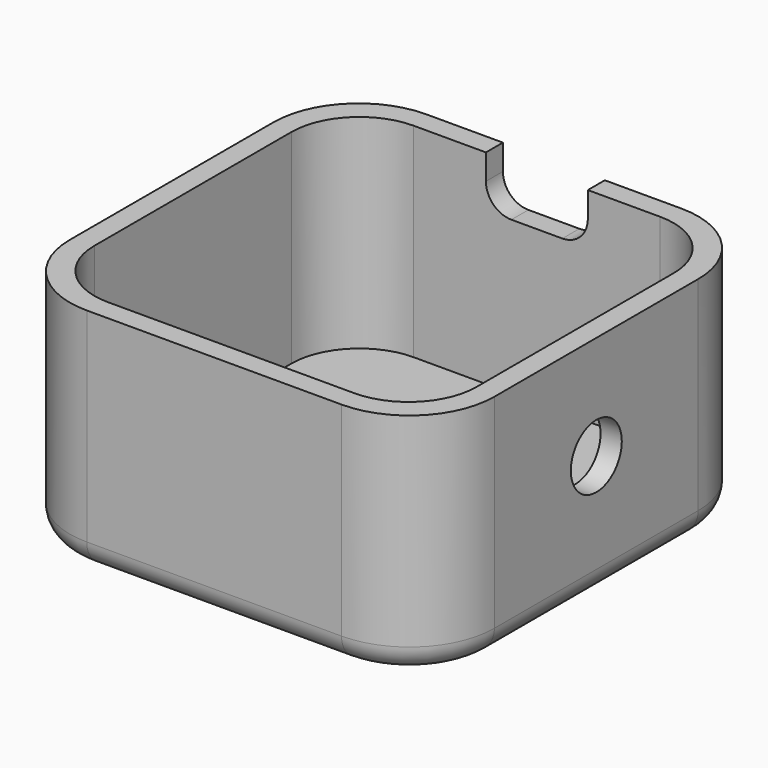
from build123d import *

# Parameters (mm, degrees)
F1_DEPTH  = 27
F3_DEPTH  = 24
F5_DEPTH  = 3
F4_R      = 3.4
F6_DEPTH  = 3
F8_DEPTH  = 3
F9_R      = 3
F10_R     = 3.75
F11_DEPTH = 3


with BuildPart() as f1:
    # F0 (on Top) → F1 (new body)
    with BuildSketch(Plane.XY):
        with BuildLine():
            ThreePointArc((25, 15), (22.071068, 22.071068), (15, 25))
            Line((15, 25), (-15, 25))
            ThreePointArc((-15, 25), (-22.071068, 22.071068), (-25, 15))
            Line((-25, 15), (-25, -15))
            ThreePointArc((-25, -15), (-22.071068, -22.071068), (-15, -25))
            Line((-15, -25), (15, -25))
            ThreePointArc((15, -25), (22.071068, -22.071068), (25, -15))
            Line((25, -15), (25, 15))
        make_face()
    extrude(amount=F1_DEPTH)

    # F2 (on face) → F3 (cut)
    with BuildSketch(Plane.XY.offset(27)):
        with BuildLine():
            ThreePointArc((22.5, 14.5), (20.156854, 20.156854), (14.5, 22.5))
            Line((14.5, 22.5), (-14.5, 22.5))
            ThreePointArc((-14.5, 22.5), (-20.156854, 20.156854), (-22.5, 14.5))
            Line((-22.5, 14.5), (-22.5, -14.5))
            ThreePointArc((-22.5, -14.5), (-20.156854, -20.156854), (-14.5, -22.5))
            Line((-14.5, -22.5), (14.5, -22.5))
            ThreePointArc((14.5, -22.5), (20.156854, -20.156854), (22.5, -14.5))
            Line((22.5, -14.5), (22.5, 14.5))
        make_face()
    extrude(amount=-F3_DEPTH, mode=Mode.SUBTRACT)

    # F4 (on face) → F5 (cut)
    with BuildSketch(Plane.XY.offset(3)):
        with BuildLine():
            ThreePointArc((6, 3), (5.12132, 5.12132), (3, 6))
            Line((3, 6), (-3, 6))
            ThreePointArc((-3, 6), (-5.12132, 5.12132), (-6, 3))
            Line((-6, 3), (-6, -3))
            ThreePointArc((-6, -3), (-5.12132, -5.12132), (-3, -6))
            Line((-3, -6), (3, -6))
            ThreePointArc((3, -6), (5.12132, -5.12132), (6, -3))
            Line((6, -3), (6, 3))
        make_face()
    extrude(amount=-F5_DEPTH, mode=Mode.SUBTRACT)

    # F4 (on face) → F6 (cut)
    with BuildSketch(Plane.XY.offset(3)):
        with BuildLine():
            ThreePointArc((6, 3), (5.12132, 5.12132), (3, 6))
            Line((3, 6), (-3, 6))
            ThreePointArc((-3, 6), (-5.12132, 5.12132), (-6, 3))
            Line((-6, 3), (-6, -3))
            ThreePointArc((-6, -3), (-5.12132, -5.12132), (-3, -6))
            Line((-3, -6), (3, -6))
            ThreePointArc((3, -6), (5.12132, -5.12132), (6, -3))
            Line((6, -3), (6, 3))
        make_face()
        with Locations((0, 12)):
            Circle(F4_R)
    extrude(amount=-F6_DEPTH, mode=Mode.SUBTRACT)

    # F7 (on face) → F8 (cut)
    with BuildSketch(Plane(origin=(0, 25, 0), x_dir=(-1, 0, 0), z_dir=(0, 1, 0))):
        with BuildLine():
            Line((-3, 21), (3, 21))
            ThreePointArc((3, 21), (5.12132, 21.87868), (6, 24))
            Line((6, 24), (6, 27))
            Line((6, 27), (-6, 27))
            Line((-6, 27), (-6, 24))
            ThreePointArc((-6, 24), (-5.12132, 21.87868), (-3, 21))
        make_face()
    extrude(amount=-F8_DEPTH, mode=Mode.SUBTRACT)

    # F9
    f9_edges = [f1.edges().sort_by_distance(p)[0] for p in [
        (0, 25, 0),
    ]]
    fillet(f9_edges, radius=F9_R)

    # F10 (on face) → F11 (cut)
    with BuildSketch(Plane.YZ.offset(25)):
        with Locations((0, 14.75)):
            Circle(F10_R)
    extrude(amount=-F11_DEPTH, mode=Mode.SUBTRACT)


solid = f1.part
